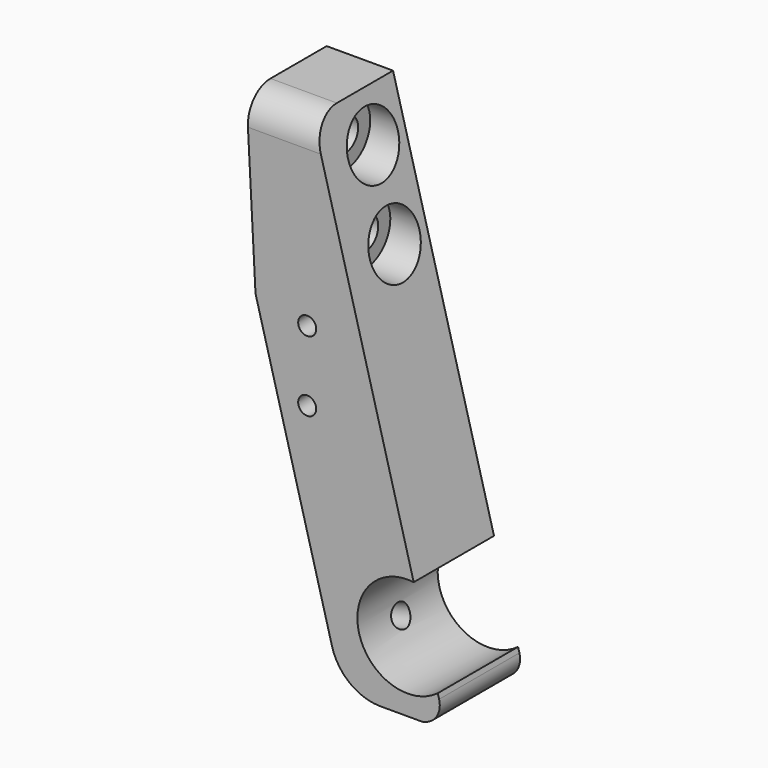
from build123d import *

# Parameters (mm, degrees)
CYLINDER167_R               = 0.9
CYLINDER167_DEPTH           = 6
CYLINDER168_R               = 0.9
CYLINDER168_DEPTH           = 6
CYLINDER166_R               = 1.1
CYLINDER166_DEPTH           = 10
CYLINDER166_PLACEMENT_ANGLE = 75
CYLINDER165_R               = 3.1
CYLINDER165_DEPTH           = 4
CYLINDER163_R               = 1.6
CYLINDER163_DEPTH           = 10
CYLINDER164_R               = 3.1
CYLINDER164_DEPTH           = 4
CYLINDER162_R               = 1.6
CYLINDER162_DEPTH           = 10
CYLINDER160_R               = 5
CYLINDER160_DEPTH           = 180
BOX077_W                    = 20
BOX077_H                    = 10
BOX077_DEPTH                = 10
BOX076_W                    = 21
BOX076_H                    = 10
BOX076_DEPTH                = 10
FILLET039_R                 = 3
BOX074_W                    = 21
BOX074_H                    = 10
BOX074_DEPTH                = 10
BOX073_W                    = 10
BOX073_H                    = 10
BOX073_DEPTH                = 25
BOX073_PLACEMENT_ANGLE      = 3
BOX075_W                    = 10
BOX075_H                    = 10
BOX075_DEPTH                = 54
BOX075_PLACEMENT_ANGLE      = 15
FILLET040_R                 = 2
FILLET041_R                 = 5


with BuildPart() as cylinder167:
    # Cylinder167 → Cylinder167 (new body)
    with BuildSketch(Plane(origin=(605, 11, -7), x_dir=(1, 0, 0), z_dir=(0, -1, 0))):
        Circle(CYLINDER167_R)
    extrude(amount=CYLINDER167_DEPTH)


with BuildPart() as fusion145:
    # Cylinder168 → Cylinder168 (new body)
    with BuildSketch(Plane(origin=(605, 11, 0), x_dir=(1, 0, 0), z_dir=(0, -1, 0))):
        Circle(CYLINDER168_R)
    extrude(amount=CYLINDER168_DEPTH)

    # Fusion145: union Cylinder167
    add(cylinder167.part)


with BuildPart() as fusion145_1:
    # Fusion145 placement: moved
    add(fusion145.part.moved(Location((0, -4, 0))))


with BuildPart() as cylinder166:
    # Cylinder166 → Cylinder166 (new body)
    with BuildSketch(Plane.XY):
        Circle(CYLINDER166_R)
    extrude(amount=CYLINDER166_DEPTH)


with BuildPart() as cylinder166_1:
    # Cylinder166 placement: moved
    add(cylinder166.part.moved(Location((604.475462, 6, -27.270932))).rotate(Axis((604.475462, 6, -27.270932), (0, 1, 0)), CYLINDER166_PLACEMENT_ANGLE))


with BuildPart() as cylinder165:
    # Cylinder165 → Cylinder165 (new body)
    with BuildSketch(Plane(origin=(606, 7, 6), x_dir=(0, 0, -1), z_dir=(1, 0, 0))):
        Circle(CYLINDER165_R)
    extrude(amount=CYLINDER165_DEPTH)


with BuildPart() as cylinder163:
    # Cylinder163 → Cylinder163 (new body)
    with BuildSketch(Plane(origin=(599, 7, 6), x_dir=(0, 0, -1), z_dir=(1, 0, 0))):
        Circle(CYLINDER163_R)
    extrude(amount=CYLINDER163_DEPTH)


with BuildPart() as cylinder164:
    # Cylinder164 → Cylinder164 (new body)
    with BuildSketch(Plane(origin=(604, 7, 14), x_dir=(0, 0, -1), z_dir=(1, 0, 0))):
        Circle(CYLINDER164_R)
    extrude(amount=CYLINDER164_DEPTH)


with BuildPart() as fusion144:
    # Cylinder162 → Cylinder162 (new body)
    with BuildSketch(Plane(origin=(599, 7, 14), x_dir=(0, 0, -1), z_dir=(1, 0, 0))):
        Circle(CYLINDER162_R)
    extrude(amount=CYLINDER162_DEPTH)

    # Fusion144: union Cylinder165, Cylinder163, Cylinder164
    add(cylinder165.part)
    add(cylinder163.part)
    add(cylinder164.part)


with BuildPart() as cylinder160:
    # Cylinder160 → Cylinder160 (new body)
    with BuildSketch(Plane(origin=(615, 121, -24), x_dir=(1, 0, 0), z_dir=(0, -1, 0))):
        Circle(CYLINDER160_R)
    extrude(amount=CYLINDER160_DEPTH)


with BuildPart() as box077:
    # Box077 → Box077 (new body)
    with BuildSketch(Plane(origin=(603, 1, -41), x_dir=(1, 0, 0), z_dir=(0, 0, 1))):
        with Locations((10, 5)):
            Rectangle(BOX077_W, BOX077_H)
    extrude(amount=BOX077_DEPTH)


with BuildPart() as fillet039:
    # Box076 → Box076 (new body)
    with BuildSketch(Plane(origin=(591, 1, 8.5), x_dir=(1, 0, 0), z_dir=(0, 0, 1))):
        with Locations((10.5, 5)):
            Rectangle(BOX076_W, BOX076_H)
    extrude(amount=BOX076_DEPTH)

    # Fillet039
    fillet039_edges = [fillet039.edges().sort_by_distance(p)[0] for p in [
        (601.5, 1, 18.5),
    ]]
    fillet(fillet039_edges, radius=FILLET039_R)


with BuildPart() as cut088:
    # Box074 → Box074 (new body)
    with BuildSketch(Plane(origin=(591, 1, 15.5), x_dir=(1, 0, 0), z_dir=(0, 0, 1))):
        with Locations((10.5, 5)):
            Rectangle(BOX074_W, BOX074_H)
    extrude(amount=BOX074_DEPTH)

    # Cut088: cut Fillet039
    add(fillet039.part, mode=Mode.SUBTRACT)


with BuildPart() as fusion143:
    # Box073 → Box073 (new body)
    with BuildSketch(Plane.XY):
        with Locations((5, 5)):
            Rectangle(BOX073_W, BOX073_H)
    extrude(amount=BOX073_DEPTH)


with BuildPart() as fusion143_1:
    # Box073 placement: moved
    add(fusion143.part.moved(Location((590, 1, -2))).rotate(Axis((590, 1, -2), (0, -1, 0)), BOX073_PLACEMENT_ANGLE))

    # Fusion143: union Cut088
    add(cut088.part)


with BuildPart() as left_bumper_holder:
    # Box075 → Box075 (new body)
    with BuildSketch(Plane.XY):
        with Locations((5, 5)):
            Rectangle(BOX075_W, BOX075_H)
    extrude(amount=BOX075_DEPTH)


with BuildPart() as left_bumper_holder_1:
    # Box075 placement: moved
    add(left_bumper_holder.part.moved(Location((609, 1, -33))).rotate(Axis((609, 1, -33), (0, -1, 0)), BOX075_PLACEMENT_ANGLE))

    # Cut089: cut Fusion143
    add(fusion143_1.part, mode=Mode.SUBTRACT)

    # Cut090: cut Box077
    add(box077.part, mode=Mode.SUBTRACT)

    # Fillet040
    fillet040_edges = [left_bumper_holder_1.edges().sort_by_distance(p)[0] for p in [
        (618.659258, 6, -30.41181),
    ]]
    fillet(fillet040_edges, radius=FILLET040_R)

    # Fillet041
    fillet041_edges = [left_bumper_holder_1.edges().sort_by_distance(p)[0] for p in [
        (608.464102, 6, -31),
    ]]
    fillet(fillet041_edges, radius=FILLET041_R)

    # Cut091: cut Cylinder160
    add(cylinder160.part, mode=Mode.SUBTRACT)

    # Cut092: cut Fusion144
    add(fusion144.part, mode=Mode.SUBTRACT)

    # Cut093: cut Cylinder166
    add(cylinder166_1.part, mode=Mode.SUBTRACT)

    # Cut094: cut Fusion145
    add(fusion145_1.part, mode=Mode.SUBTRACT)


with BuildPart() as left_bumper_holder_2:
    # Cut094 placement: moved
    add(left_bumper_holder_1.part.moved(Location((0, -10, 0))))


solid = left_bumper_holder_2.part
